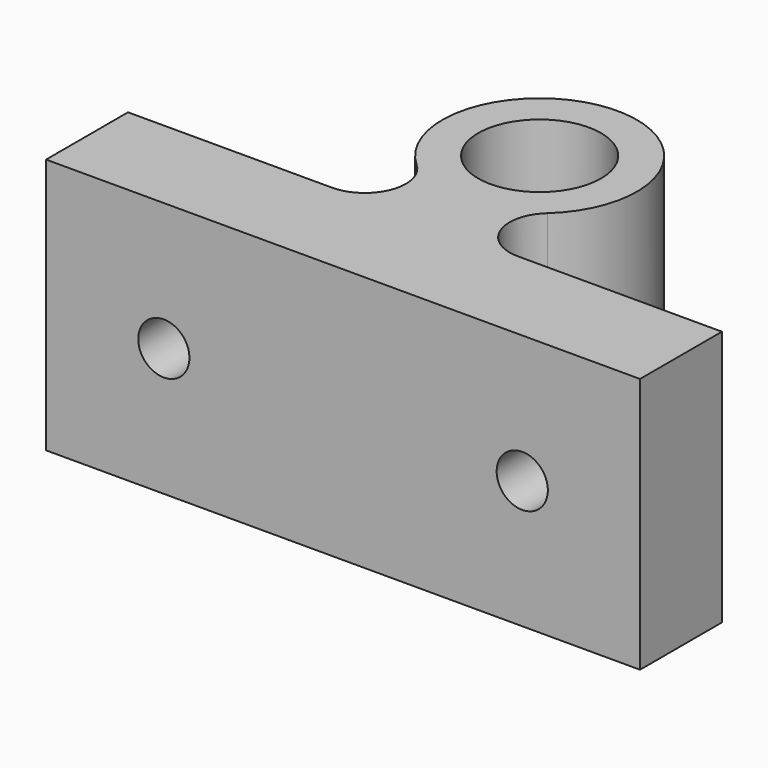
from build123d import *

# Parameters (mm, degrees)
F0_R     = 6
F1_DEPTH = 25
F3_D     = 5


with BuildPart() as f1:
    # F0 (on Top) → F1 (new body)
    with BuildSketch(Plane.XY):
        with BuildLine():
            Line((-9.069179, 5), (-29, 5))
            Line((-29, 5), (-29, -5))
            Line((-29, -5), (29, -5))
            Line((29, -5), (29, 5))
            Line((29, 5), (9.069179, 5))
            ThreePointArc((9.069179, 5), (5.337433, 7.559835), (6.382015, 11.962963))
            ThreePointArc((6.382015, 11.962963), (0, 28.5), (-6.382015, 11.962963))
            ThreePointArc((-6.382015, 11.962963), (-5.337433, 7.559835), (-9.069179, 5))
        make_face()
        with Locations((0, 19)):
            Circle(F0_R, mode=Mode.SUBTRACT)
    extrude(amount=F1_DEPTH)

    # F3 (through all)
    with Locations(Plane.XZ.offset(5)):
        with Locations((-17.5, 12.5), (17.5, 12.5)):
            Hole(F3_D / 2)


solid = f1.part
